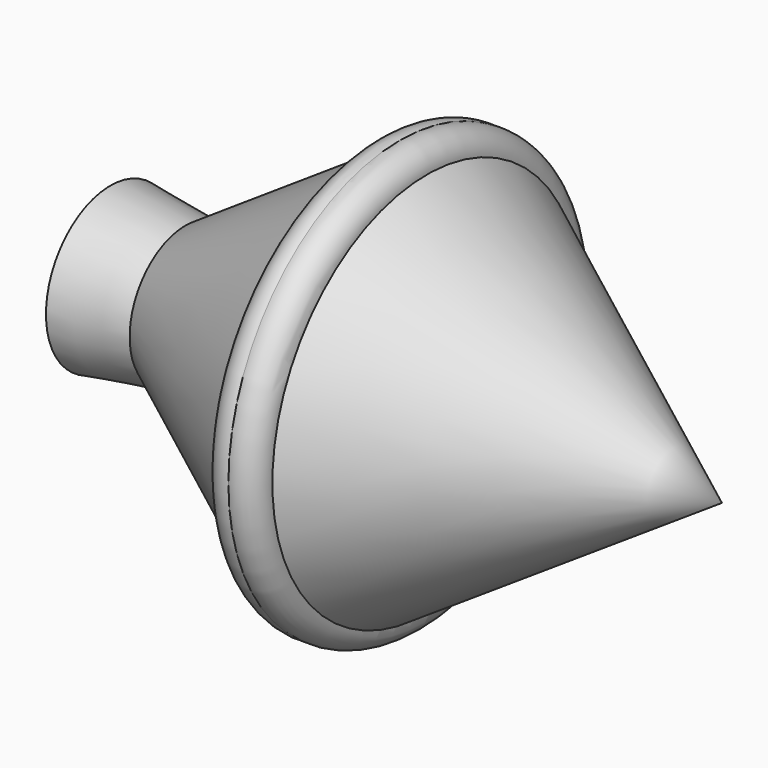
from build123d import *


with BuildPart() as f1:
    # F0 (on Top) → F1 (revolve)
    with BuildSketch(Plane.XY):
        Polygon((-27.036538, 0.079658), (-20.036538, 0.079658), (-20.036538, 6.579658), (-27.036538, 7.579658), align=None)
        Polygon((-20.036538, 6.579658), (-20.036538, 0.079658), (-2.536538, 0.079658), (-2.536538, 18.079658), align=None)
        with BuildLine():
            Line((-2.536538, 18.079658), (-2.536538, 0.079658))
            Line((-2.536538, 0.079658), (-0.036538, 0.079658))
            Line((-0.036538, 0.079658), (-0.036538, 20.079658))
            ThreePointArc((-0.036538, 20.079658), (-1.767163, 19.680439), (-2.536538, 18.079658))
        make_face()
        with BuildLine():
            Line((-0.036538, 20.079658), (-0.036538, 0.079658))
            Line((-0.036538, 0.079658), (2.463462, 0.079658))
            Line((2.463462, 0.079658), (2.463462, 18.079658))
            ThreePointArc((2.463462, 18.079658), (1.694086, 19.680439), (-0.036538, 20.079658))
        make_face()
        Polygon((2.463462, 18.079658), (2.463462, 0.079658), (19.963462, 0.079658), (29.963462, 0.079658), align=None)
    revolve(axis=Axis((-0.036538, 0.079658, 0), (1, 0, 0)))


solid = f1.part
